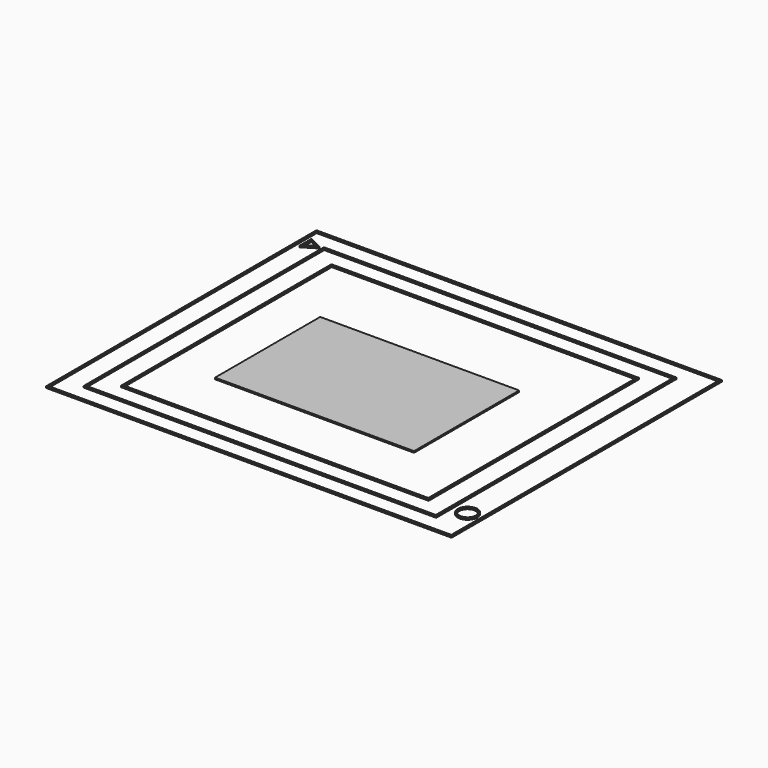
from build123d import *

# Parameters (mm, degrees)
F1_W     = 270
F1_H     = 225
F1_W_2   = 268
F1_H_2   = 223
F2_DEPTH = 1
F1_W_3   = 234.7133469
F1_H_3   = 200
F1_W_4   = 232.7133469
F1_H_4   = 198
F1_W_5   = 204.7133469
F1_H_5   = 175
F1_W_6   = 202.7133469
F1_H_6   = 173
F1_R     = 6.5
F1_R_2   = 5.5
F1_W_7   = 132.5
F1_H_7   = 87.5


with BuildPart() as f2:
    # F1 (on Top) → F2 (new body)
    with BuildSketch(Plane.XY):
        with Locations((43.5175617039, 40.3632308638)):
            Rectangle(F1_W, F1_H)
        with Locations((43.5175617039, 40.3632308638)):
            Rectangle(F1_W_2, F1_H_2, mode=Mode.SUBTRACT)
    extrude(amount=F2_DEPTH)


with BuildPart() as f2b:
    # F1 (on Top) → F2, piece 2 (new body)
    with BuildSketch(Plane.XY):
        with Locations((40.8742351539, 40.3632308638)):
            Rectangle(F1_W_3, F1_H_3)
        with Locations((40.8742351539, 40.3632308638)):
            Rectangle(F1_W_4, F1_H_4, mode=Mode.SUBTRACT)
    extrude(amount=F2_DEPTH)


with BuildPart() as f2c:
    # F1 (on Top) → F2, piece 3 (new body)
    with BuildSketch(Plane.XY):
        with Locations((40.8742351539, 40.3632308638)):
            Rectangle(F1_W_5, F1_H_5)
        with Locations((40.8742351539, 40.3632308638)):
            Rectangle(F1_W_6, F1_H_6, mode=Mode.SUBTRACT)
    extrude(amount=F2_DEPTH)


with BuildPart() as f2d:
    # F1 (on Top) → F2, piece 4 (new body)
    with BuildSketch(Plane.XY):
        with Locations((168.3742351539, -46.1367691362)):
            Circle(F1_R)
        with Locations((168.3742351539, -46.1367691362)):
            Circle(F1_R_2, mode=Mode.SUBTRACT)
    extrude(amount=F2_DEPTH)


with BuildPart() as f2e:
    # F1 (on Top) → F2, piece 5 (new body)
    with BuildSketch(Plane.XY):
        with Locations((37.2675617039, 34.1132308638)):
            Rectangle(F1_W_7, F1_H_7)
    extrude(amount=F2_DEPTH)


with BuildPart() as f2f:
    # F1 (on Top) → F2, piece 6 (new body)
    with BuildSketch(Plane.XY):
        Polygon((-78.5521527463, 139.3632308638), (-87.4824382961, 143.8632308638), (-87.4824382961, 133.8632308638), align=None)
        Polygon((-86.4824382961, 135.6535530649), (-86.4824382961, 142.2395425821), (-80.6009615945, 139.2758472994), align=None, mode=Mode.SUBTRACT)
    extrude(amount=F2_DEPTH)


solid = Compound([f2.part, f2b.part, f2c.part, f2d.part, f2e.part, f2f.part])
